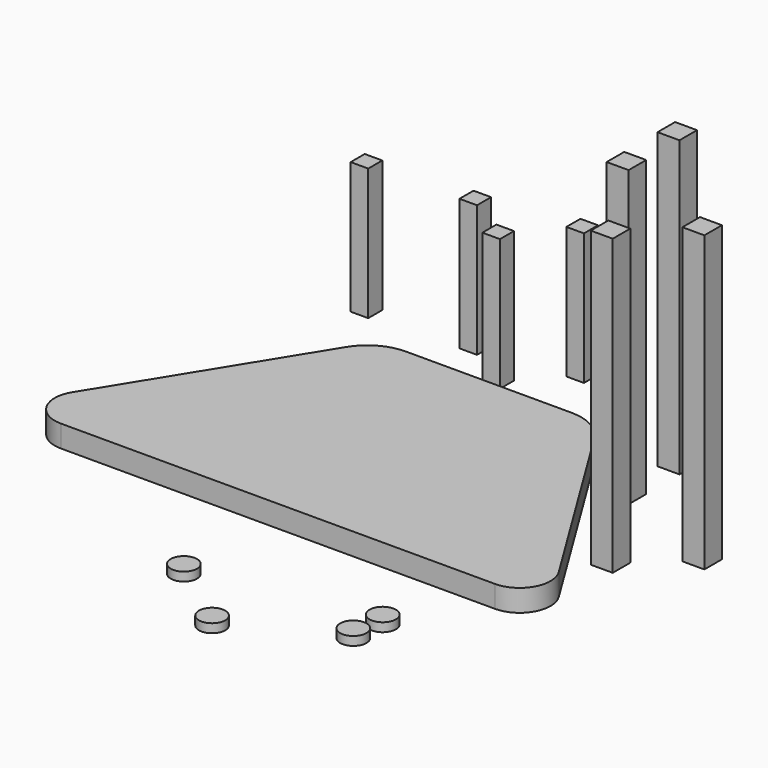
from build123d import *

# Parameters (mm, degrees)
F1_DEPTH = 6.35
F2_W     = 6.35
F2_H     = 6.35
F3_DEPTH = 85.09
F4_W     = 5.08
F4_H     = 5.08
F5_DEPTH = 38.1
F6_R     = 3.81
F7_DEPTH = 2.54


with BuildPart() as f1:
    # F0 (on Top) → F1 (new body)
    with BuildSketch(Plane.XY):
        with BuildLine():
            Line((-45.741252, -32.408912), (-45.741252, 41.412222))
            ThreePointArc((-45.741252, 41.412222), (-48.015386, 39.50179), (-49.834257, 37.153783))
            Line((-49.834257, 37.153783), (-84.371558, -18.852652))
            ThreePointArc((-84.371558, -18.852652), (-84.567225, -27.85187), (-76.804649, -32.408912))
            Line((-76.804649, -32.408912), (-45.741252, -32.408912))
        make_face()
        with BuildLine():
            ThreePointArc((21.851752, 37.153783), (20.032881, 39.50179), (17.758748, 41.412222))
            Line((17.758748, 41.412222), (17.758748, -32.408912))
            Line((17.758748, -32.408912), (48.822145, -32.408912))
            ThreePointArc((48.822145, -32.408912), (56.58472, -27.85187), (56.389054, -18.852652))
            Line((56.389054, -18.852652), (21.851752, 37.153783))
        make_face()
        with BuildLine():
            Line((9.960895, 43.791088), (-37.9434, 43.791088))
            ThreePointArc((-37.9434, 43.791088), (-42.019719, 43.183143), (-45.741252, 41.412222))
            Line((-45.741252, 41.412222), (-45.741252, -32.408912))
            Line((-45.741252, -32.408912), (17.758748, -32.408912))
            Line((17.758748, -32.408912), (17.758748, 41.412222))
            ThreePointArc((17.758748, 41.412222), (14.037214, 43.183143), (9.960895, 43.791088))
        make_face()
    extrude(amount=F1_DEPTH)


with BuildPart() as f3:
    # F2 (on Top) → F3 (new body)
    with BuildSketch(Plane.XY):
        with Locations((55.372456, 1.132299)):
            Rectangle(F2_W, F2_H)
        with Locations((70.501657, 15.353753)):
            Rectangle(F2_W, F2_H)
        with Locations((37.217411, 29.575207)):
            Rectangle(F2_W, F2_H)
        with Locations((37.068252, 48.148061)):
            Rectangle(F2_W, F2_H)
    extrude(amount=F3_DEPTH)


with BuildPart() as f5:
    # F4 (on Top) → F5 (new body)
    with BuildSketch(Plane.XY):
        with Locations((-7.0868, 68.962596)):
            Rectangle(F4_W, F4_H)
        with Locations((-20.142827, 54.902259)):
            Rectangle(F4_W, F4_H)
        with Locations((-34.53793, 64.610586)):
            Rectangle(F4_W, F4_H)
        with Locations((-64.939551, 63.271508)):
            Rectangle(F4_W, F4_H)
    extrude(amount=F5_DEPTH)


with BuildPart() as f7:
    # F6 (on Top) → F7 (new body)
    with BuildSketch(Plane.XY):
        with Locations((33.75512, -54.23272)):
            Circle(F6_R)
        with Locations((3.960603, -78.670919)):
            Circle(F6_R)
        with Locations((-16.795127, -62.936738)):
            Circle(F6_R)
        with Locations((32.750815, -63.606277)):
            Circle(F6_R)
    extrude(amount=F7_DEPTH)


solid = Compound([f1.part, f3.part, f5.part, f7.part])
